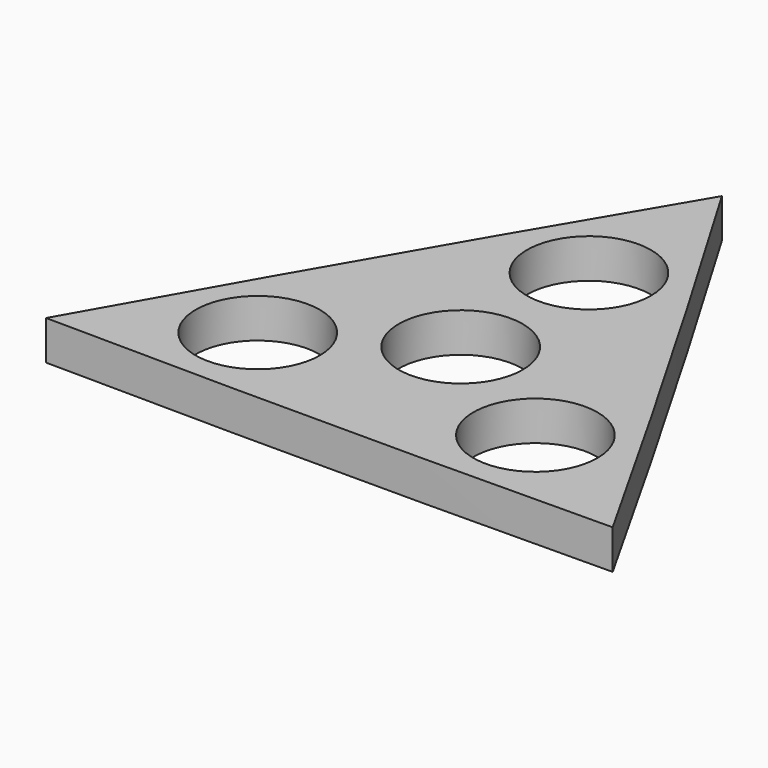
from build123d import *

# Parameters (mm, degrees)
F0_R     = 13.55
F0_R_2   = 11.05
F1_DEPTH = 7


with BuildPart() as f1:
    # F0 (on Top) → F1 (new body)
    with BuildSketch(Plane.XY):
        with BuildLine():
            ThreePointArc((50.482868, -29.248874), (25.532094, 14.638384), (0, 58.190018))
            ThreePointArc((0, 58.190018), (-25.532094, 14.638384), (-50.482868, -29.248874))
            ThreePointArc((-50.482868, -29.248874), (0, -29.584499), (50.482868, -29.248874))
        make_face()
        with Locations((-24.741249, -14.284367)):
            Circle(F0_R, mode=Mode.SUBTRACT)
        with Locations((24.741249, -14.284367)):
            Circle(F0_R, mode=Mode.SUBTRACT)
        Circle(F0_R, mode=Mode.SUBTRACT)
        with Locations((0, 28.568733)):
            Circle(F0_R, mode=Mode.SUBTRACT)
        Circle(F0_R)
        Circle(F0_R_2, mode=Mode.SUBTRACT)
        with Locations((-24.741249, -14.284367)):
            Circle(F0_R)
        with Locations((-24.741249, -14.284367)):
            Circle(F0_R_2, mode=Mode.SUBTRACT)
        with Locations((0, 28.568733)):
            Circle(F0_R)
        with Locations((0, 28.568733)):
            Circle(F0_R_2, mode=Mode.SUBTRACT)
        with Locations((24.741249, -14.284367)):
            Circle(F0_R)
        with Locations((24.741249, -14.284367)):
            Circle(F0_R_2, mode=Mode.SUBTRACT)
    extrude(amount=F1_DEPTH)


solid = f1.part
